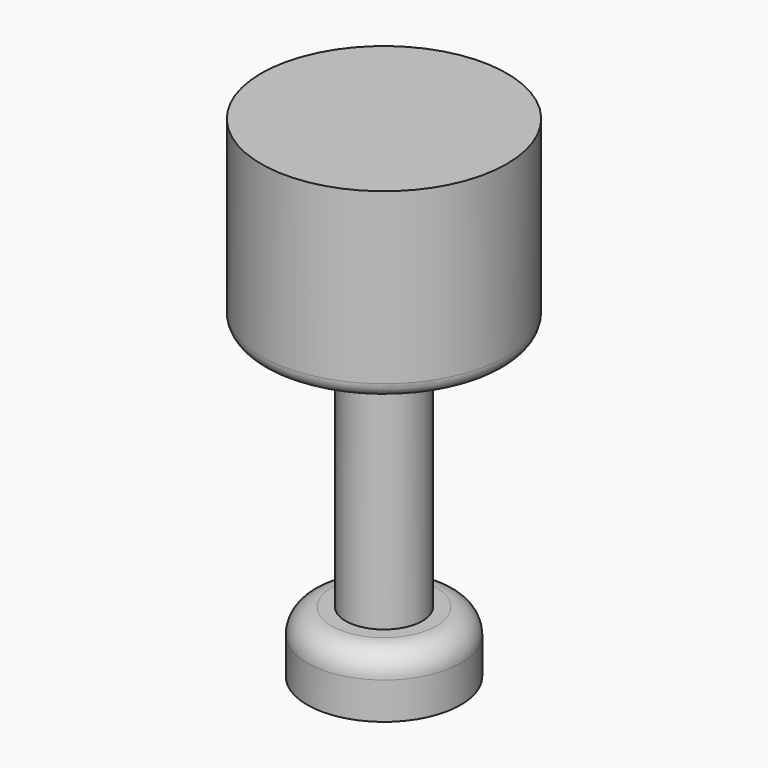
from build123d import *

# Parameters (mm, degrees)
F2_R = 5.08
F3_R = 3.048


with BuildPart() as f1:
    # F0 (on Front) → F1 (revolve)
    with BuildSketch(Plane.XZ):
        Polygon((0, -34.125851), (0, 67.474149), (-25.4, 67.474149), (-25.4, 29.374149), (-7.9375, 29.374149), (-7.9375, -21.425851), (-15.875, -21.425851), (-15.875, -34.125851), align=None)
    revolve(axis=Axis((0, 0, 9.330612), (0, 0, -1)))

    # F2
    f2_edges = [f1.edges().sort_by_distance(p)[0] for p in [
        (7.9375, 0, 29.374149),
        (15.875, 0, -21.425851),
    ]]
    fillet(f2_edges, radius=F2_R)

    # F3
    f3_edges = [f1.edges().sort_by_distance(p)[0] for p in [
        (25.4, 0, 29.374149),
    ]]
    fillet(f3_edges, radius=F3_R)


solid = f1.part
